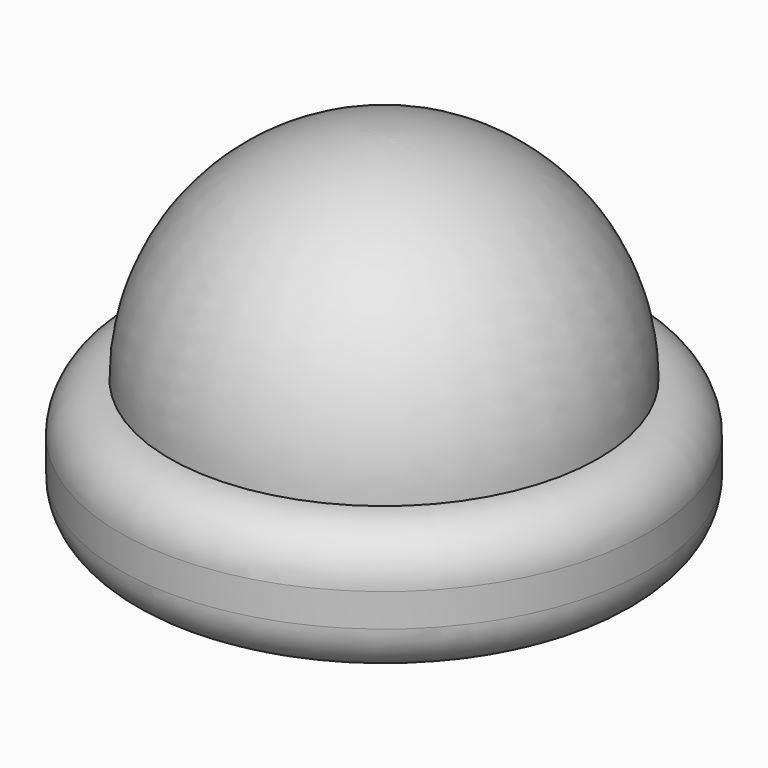
from build123d import *

# Parameters (mm, degrees)
F0_R      = 16
F0_R_2    = 15
F1_DEPTH  = 5
F2_R      = 16
F3_DEPTH  = 2
F4_R      = 3
F5_R      = 16
F6_DEPTH  = 1
F7_R      = 3
F8_R      = 5
F9_DEPTH  = 7
F10_R     = 6.15
F10_R_2   = 5.75
F11_DEPTH = 5


with BuildPart() as f1:
    # F0 (on Top) → F1 (new body)
    with BuildSketch(Plane.XY):
        Circle(F0_R)
        Circle(F0_R_2, mode=Mode.SUBTRACT)
    extrude(amount=F1_DEPTH)

    # F2 (on face) → F3 (join)
    with BuildSketch(Plane.XY.offset(5)):
        Circle(F2_R)
    extrude(amount=F3_DEPTH)

    # F4
    f4_edges = [f1.edges().sort_by_distance(p)[0] for p in [
        (-16, 0, 7),
    ]]
    fillet(f4_edges, radius=F4_R)

    # F5 (on face) → F6 (join)
    with BuildSketch(Plane(origin=(0, 0, 0), x_dir=(1, 0, 0), z_dir=(0, 0, -1))):
        Circle(F5_R)
    extrude(amount=F6_DEPTH)

    # F7
    f7_edges = [f1.edges().sort_by_distance(p)[0] for p in [
        (-16, 0, -1),
    ]]
    fillet(f7_edges, radius=F7_R)

    # F8 (on face) → F9 (cut)
    with BuildSketch(Plane.XY.offset(7)):
        Circle(F8_R)
    extrude(amount=-F9_DEPTH, mode=Mode.SUBTRACT)

    # F10 (on face) → F11 (join)
    with BuildSketch(Plane.XY.offset(7)):
        Circle(F10_R)
        Circle(F10_R_2, mode=Mode.SUBTRACT)
    extrude(amount=F11_DEPTH)

    # F13 (on Front) → F14 (revolve)
    with BuildSketch(Plane.XZ):
        with BuildLine():
            Line((0, 19.5), (0, 20))
            ThreePointArc((0, 20), (-9.192388, 16.192388), (-13, 7))
            Line((-13, 7), (-12.5, 7))
            ThreePointArc((-12.5, 7), (-8.838835, 15.838835), (0, 19.5))
        make_face()
    revolve(axis=Axis((0, 0, 13.5), (0, 0, 1)))


solid = f1.part
